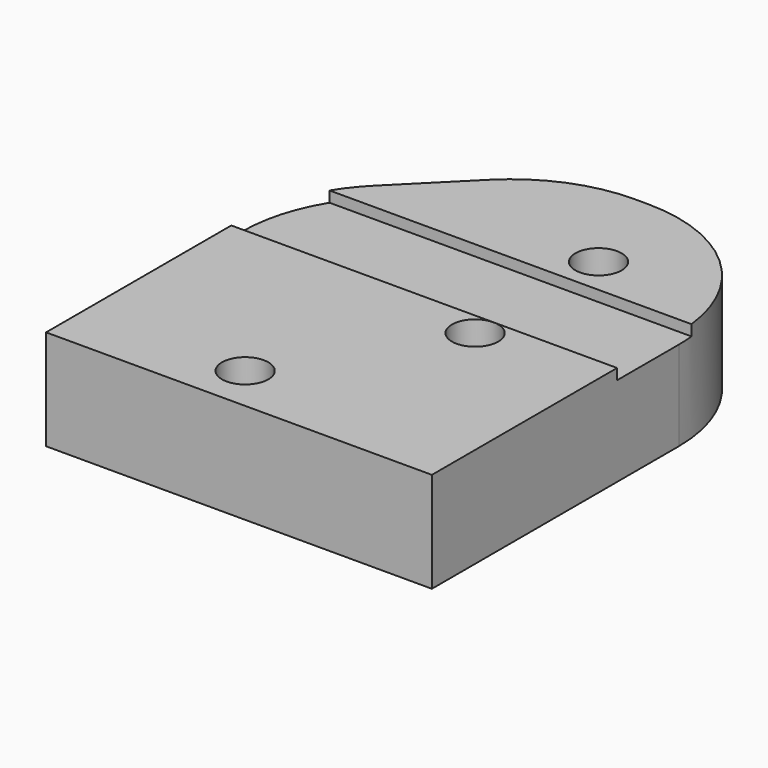
from build123d import *

# Parameters (mm, degrees)
F0_W     = 25
F0_H     = 30
F1_DEPTH = 6.5
F2_R     = 1.5
F3_DEPTH = 6.501
F4_W     = 25
F4_H     = 6.1
F5_DEPTH = 0.7
F6_SIZE  = 10
F7_R     = 10


with BuildPart() as f1:
    # F0 (on Top) → F1 (new body)
    with BuildSketch(Plane.XY):
        Rectangle(F0_W, F0_H)
    extrude(amount=F1_DEPTH)

    # F2 (on face) → F3 (cut, through all)
    with BuildSketch(Plane.XY.offset(6.5)):
        with Locations((-2, -12)):
            Circle(F2_R)
        with Locations((4.5, -1.5)):
            Circle(F2_R)
        with Locations((4.5, 8.5)):
            Circle(F2_R)
    extrude(amount=-F3_DEPTH, mode=Mode.SUBTRACT)

    # F4 (on face) → F5 (cut)
    with BuildSketch(Plane.XY.offset(6.5)):
        with Locations((0, 3.051)):
            Rectangle(F4_W, F4_H)
    extrude(amount=-F5_DEPTH, mode=Mode.SUBTRACT)

    # F6
    f6_edges = [f1.edges().sort_by_distance(p)[0] for p in [
        (-12.5, 15, 3.25),
    ]]
    chamfer(f6_edges, length=F6_SIZE)

    # F7
    f7_edges = [f1.edges().sort_by_distance(p)[0] for p in [
        (-2.5, 15, 3.25),
        (-12.5, 5, 2.9),
        (12.5, 15, 3.25),
    ]]
    fillet(f7_edges, radius=F7_R)


solid = f1.part
